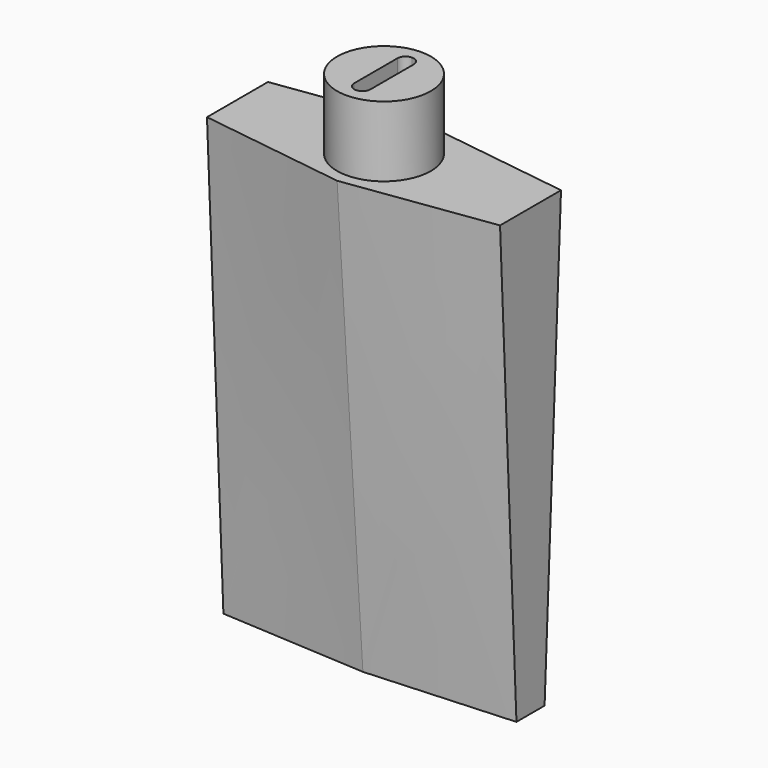
from build123d import *

# Parameters (mm, degrees)
F4_R     = 4
F5_DEPTH = 6
F7_DEPTH = 15


with BuildPart() as f3:
    # F0 (on Top) → F3 section 0
    with BuildSketch(Plane.XY):
        Polygon((12.5, 1.5), (0, 2.25), (-12.5, 1.5), (-12.5, 0), (-12.5, -1.5), (0, -2.25), (12.5, -1.5), (12.5, 0), align=None)
    # F2 (on offset) → F3 section 1
    with BuildSketch(Plane.XY.offset(38)):
        Polygon((-12.5, 3.25), (-12.5, 0), (-12.5, -3.25), (0, -5), (12.5, -3.25), (12.5, 0), (12.5, 3.25), (0, 5), align=None)
    loft()

    # F4 (on face) → F5 (join)
    with BuildSketch(Plane.XY.offset(38)):
        Circle(F4_R)
    extrude(amount=F5_DEPTH)

    # F6 (on face) → F7 (cut)
    with BuildSketch(Plane.XY.offset(44)):
        with BuildLine():
            Line((-0.7, 2.3), (-0.7, 0))
            Line((-0.7, 0), (-0.7, -2.3))
            ThreePointArc((-0.7, -2.3), (-0.4949747468, -2.7949747468), (0, -3))
            ThreePointArc((0, -3), (0.4949747468, -2.7949747468), (0.7, -2.3))
            Line((0.7, -2.3), (0.7, 0))
            Line((0.7, 0), (0.7, 2.3))
            ThreePointArc((0.7, 2.3), (0.4949747468, 2.7949747468), (0, 3))
            ThreePointArc((0, 3), (-0.4949747468, 2.7949747468), (-0.7, 2.3))
        make_face()
    extrude(amount=-F7_DEPTH, mode=Mode.SUBTRACT)


solid = f3.part
